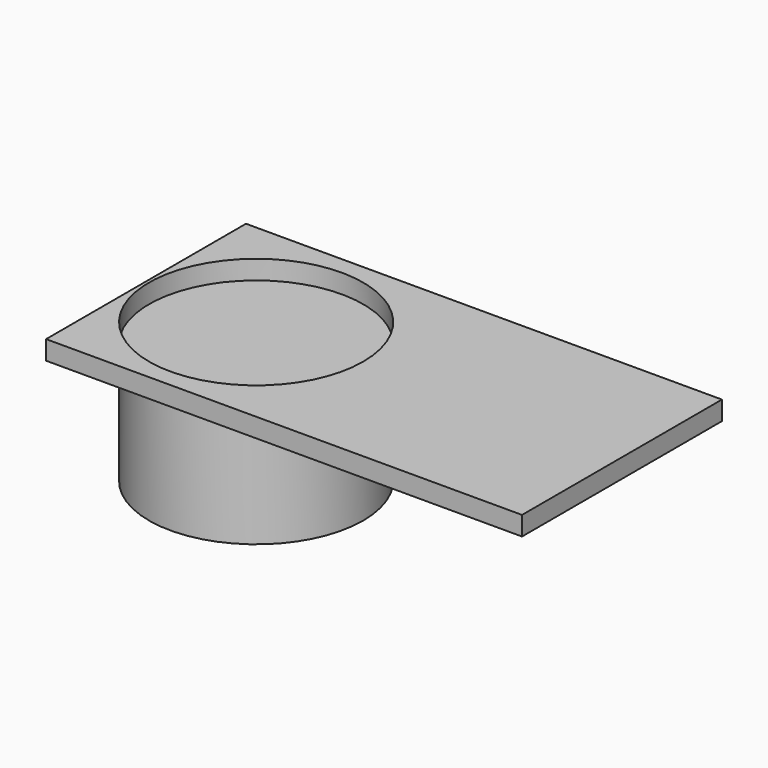
from build123d import *

# Parameters (mm, degrees)
F0_R     = 9
F1_DEPTH = 10.16
F2_W     = 40
F2_H     = 21
F2_R     = 9
F3_DEPTH = 1.6


with BuildPart() as f1:
    # F0 (on Top) → F1 (new body)
    with BuildSketch(Plane.XY):
        Circle(F0_R)
    extrude(amount=F1_DEPTH)


with BuildPart() as f3:
    # F2 (on face) → F3 (new body)
    with BuildSketch(Plane.XY.offset(10.16)):
        with Locations((10.746, 0)):
            Rectangle(F2_W, F2_H)
        Circle(F2_R, mode=Mode.SUBTRACT)
    extrude(amount=F3_DEPTH)


solid = Compound([f1.part, f3.part])
